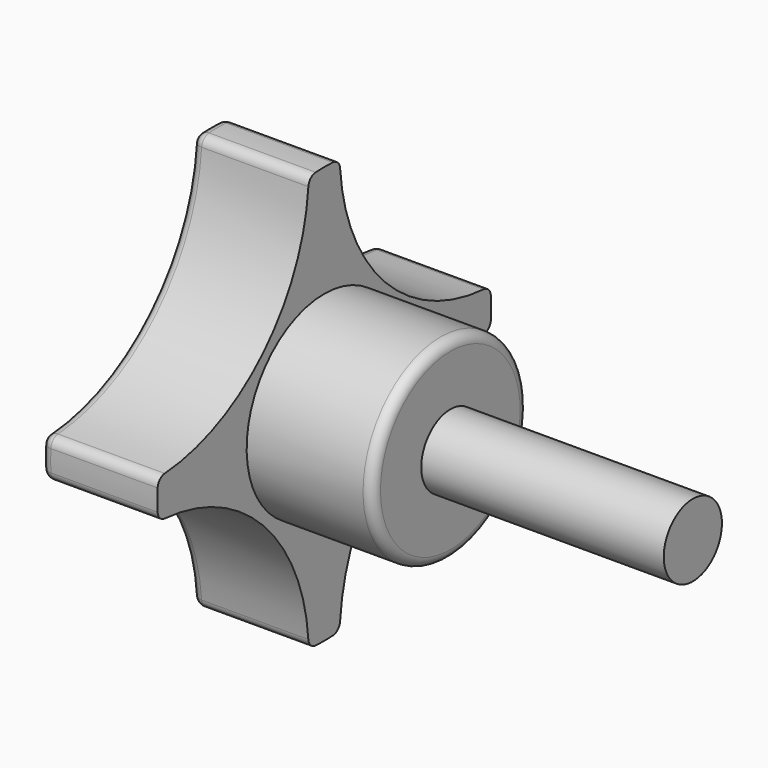
from build123d import *

# Parameters (mm, degrees)
F0_W     = 25
F0_H     = 3.75
F3_DEPTH = 50.001
F4_R     = 1
F2_R     = 10
F5_DEPTH = 1


with BuildPart() as f1:
    # F0 (on Front) → F1 (revolve)
    with BuildSketch(Plane.XZ):
        Polygon((-50, 0), (-38, 0), (-38, 10), (-38, 21.5), (-50, 21.5), align=None)
        Polygon((-38, 0), (-25, 0), (-25, 3.75), (-25, 10), (-38, 10), align=None)
        with Locations((-12.5, 1.875)):
            Rectangle(F0_W, F0_H)
    revolve(axis=Axis((-31.744454056, 0, 0), (-1, 0, 0)))

    # F2 (on face) → F3 (cut, through all)
    with BuildSketch(Plane(origin=(-50, 0, 0), x_dir=(0, -1, 0), z_dir=(-1, 0, 0))):
        with BuildLine():
            ThreePointArc((-21.4064859646, 2.0030872791), (-7.8523074483, 7.8523074483), (-2.0030872791, 21.4064859646))
            ThreePointArc((-2.0030872791, 21.4064859646), (-15.2027957955, 15.2027957955), (-21.4064859646, 2.0030872791))
        make_face()
        with BuildLine():
            ThreePointArc((2.0030872791, 21.4064859646), (7.8523074483, 7.8523074483), (21.4064859646, 2.0030872791))
            ThreePointArc((21.4064859646, 2.0030872791), (15.2027957955, 15.2027957955), (2.0030872791, 21.4064859646))
        make_face()
        with BuildLine():
            ThreePointArc((-21.4064859646, -2.0030872791), (-15.2027957955, -15.2027957955), (-2.0030872791, -21.4064859646))
            ThreePointArc((-2.0030872791, -21.4064859646), (-7.8523074483, -7.8523074483), (-21.4064859646, -2.0030872791))
        make_face()
        with BuildLine():
            ThreePointArc((2.0030872791, -21.4064859646), (15.2027957955, -15.2027957955), (21.4064859646, -2.0030872791))
            ThreePointArc((21.4064859646, -2.0030872791), (7.8523074483, -7.8523074483), (2.0030872791, -21.4064859646))
        make_face()
    extrude(amount=-F3_DEPTH, mode=Mode.SUBTRACT)

    # F4
    f4_edges = [f1.edges().sort_by_distance(p)[0] for p in [
        (-50, -7.852307, 7.852307),
        (-50, 0, 21.5),
        (-50, 7.852307, 7.852307),
        (-50, 21.5, 0),
        (-50, 7.852307, -7.852307),
        (-50, 0, -21.5),
        (-50, -7.852307, -7.852307),
        (-50, -21.5, 0),
        (-44, -2.003087, -21.406486),
        (-44, 21.406486, -2.003087),
        (-44, -21.406486, -2.003087),
        (-44, -2.003087, 21.406486),
        (-44, -21.406486, 2.003087),
        (-44, 2.003087, 21.406486),
        (-44, 21.406486, 2.003087),
        (-44, 2.003087, -21.406486),
        (-25, 0, -10),
    ]]
    fillet(f4_edges, radius=F4_R)

    # F2 (on face) → F5 (cut)
    with BuildSketch(Plane(origin=(-50, 0, 0), x_dir=(0, -1, 0), z_dir=(-1, 0, 0))):
        Circle(F2_R)
    extrude(amount=-F5_DEPTH, mode=Mode.SUBTRACT)


solid = f1.part
